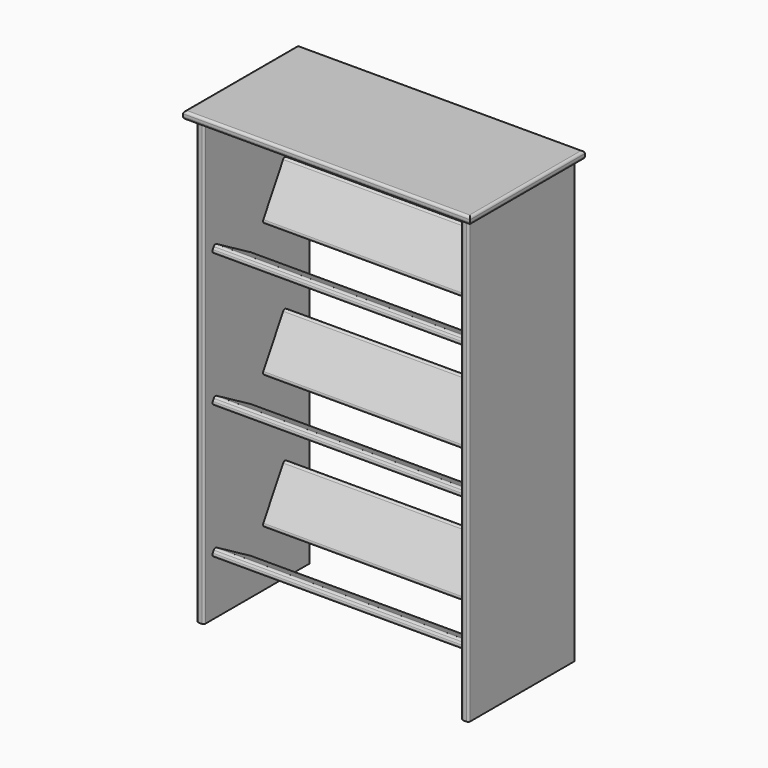
from build123d import *

# Parameters (mm, degrees)
F0_W     = 736.6
F0_H     = 368.3
F2_DEPTH = 19.05
F3_R     = 6.35
F1_W     = 19.05
F1_H     = 342.9
F4_DEPTH = 1136.65
F5_R     = 5.08
F7_DEPTH = 660.4
F8_R     = 6.35


with BuildPart() as f2:
    # F0 (on Top) → F2 (new body)
    with BuildSketch(Plane.XY):
        with Locations((368.3, 184.15)):
            Rectangle(F0_W, F0_H)
    extrude(amount=F2_DEPTH)

    # F3
    f3_edges = [f2.edges().sort_by_distance(p)[0] for p in [
        (0, 184.15, 19.05),
        (368.3, 0, 19.05),
        (736.6, 184.15, 19.05),
        (368.3, 368.3, 19.05),
        (0, 184.15, 0),
        (368.3, 0, 0),
        (736.6, 184.15, 0),
        (368.3, 368.3, 0),
    ]]
    fillet(f3_edges, radius=F3_R)

    # F1 (on Top) → F4 (join)
    with BuildSketch(Plane.XY):
        with Locations((28.575, 190.5)):
            Rectangle(F1_W, F1_H)
        with Locations((708.025, 190.5)):
            Rectangle(F1_W, F1_H)
    extrude(amount=-F4_DEPTH)

    # F5
    f5_edges = [f2.edges().sort_by_distance(p)[0] for p in [
        (38.1, 19.05, -568.325),
        (38.1, 361.95, -568.325),
        (19.05, 361.95, -568.325),
        (19.05, 19.05, -568.325),
        (698.5, 361.95, -568.325),
        (698.5, 19.05, -568.325),
        (717.55, 19.05, -568.325),
        (717.55, 361.95, -568.325),
    ]]
    fillet(f5_edges, radius=F5_R)

    # F6 (on face) → F7 (join)
    with BuildSketch(Plane.YZ.offset(38.1)):
        Polygon((174.958749, -359.792613), (53.975, -289.942613), (44.45, -306.440397), (165.433749, -376.290397), align=None)
        Polygon((293.056533, -193.341251), (276.558749, -183.816251), (206.708749, -304.8), (223.206533, -314.325), align=None)
        Polygon((174.958749, -702.692613), (53.975, -632.842613), (44.45, -649.340397), (165.433749, -719.190397), align=None)
        Polygon((293.056533, -536.241251), (276.558749, -526.716251), (206.708749, -647.7), (223.206533, -657.225), align=None)
        Polygon((174.958749, -1045.592613), (53.975, -975.742613), (44.45, -992.240397), (165.433749, -1062.090397), align=None)
        Polygon((293.056533, -879.141251), (276.558749, -869.616251), (206.708749, -990.6), (223.206533, -1000.125), align=None)
    extrude(amount=F7_DEPTH)

    # F8
    f8_edges = [f2.edges().sort_by_distance(p)[0] for p in [
        (368.3, 276.558749, -183.816251),
        (368.3, 206.708749, -304.8),
        (368.3, 53.975, -289.942613),
        (368.3, 44.45, -306.440397),
        (368.3, 276.558749, -526.716251),
        (368.3, 206.708749, -647.7),
        (368.3, 53.975, -632.842613),
        (368.3, 44.45, -649.340397),
        (368.3, 276.558749, -869.616251),
        (368.3, 206.708749, -990.6),
        (368.3, 53.975, -975.742613),
        (368.3, 44.45, -992.240397),
        (368.3, 165.433749, -1062.090397),
        (368.3, 174.958749, -1045.592613),
        (368.3, 223.206533, -1000.125),
        (368.3, 293.056533, -879.141251),
        (368.3, 165.433749, -719.190397),
        (368.3, 174.958749, -702.692613),
        (368.3, 223.206533, -657.225),
        (368.3, 293.056533, -536.241251),
        (368.3, 165.433749, -376.290397),
        (368.3, 174.958749, -359.792613),
        (368.3, 223.206533, -314.325),
        (368.3, 293.056533, -193.341251),
    ]]
    fillet(f8_edges, radius=F8_R)


solid = f2.part
